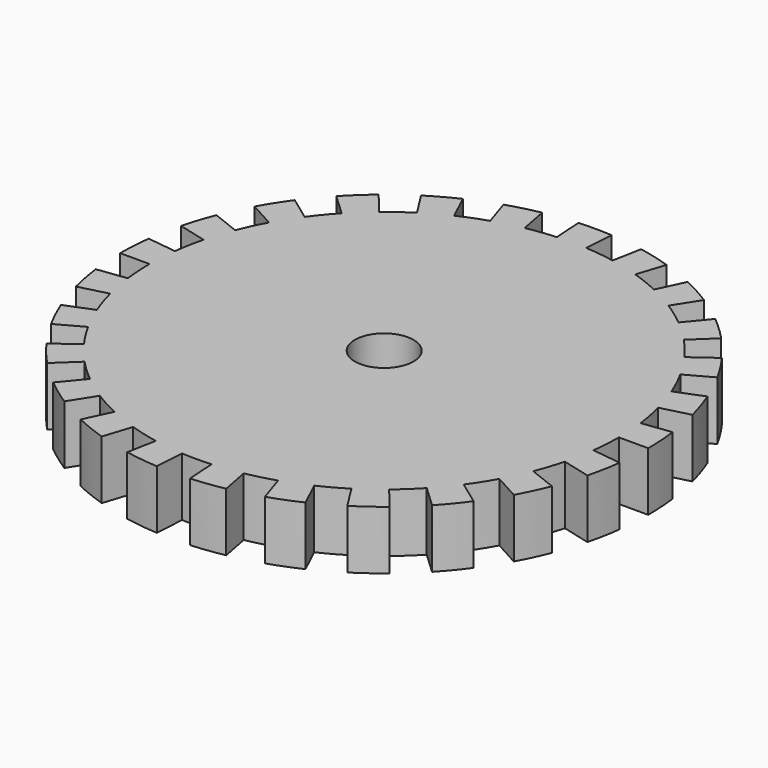
from build123d import *

# Parameters (mm, degrees)
F0_R     = 3.175
F1_DEPTH = 6.35


with BuildPart() as f1:
    # F0 (on Top) → F1 (new body)
    with BuildSketch(Plane.XY):
        with BuildLine():
            Line((-4.759485, 24.950096), (-5.354421, 28.068858))
            ThreePointArc((-5.354421, 28.068858), (-7.106314, 27.677264), (-8.830161, 27.17644))
            Line((-8.830161, 27.17644), (-7.849032, 24.156836))
            ThreePointArc((-7.849032, 24.156836), (-9.350364, 23.616323), (-10.814794, 22.982607))
            Line((-10.814794, 22.982607), (-12.166643, 25.855433))
            ThreePointArc((-12.166643, 25.855433), (-13.766111, 25.040463), (-15.311251, 24.12667))
            Line((-15.311251, 24.12667), (-13.610001, 21.445929))
            ThreePointArc((-13.610001, 21.445929), (-14.929745, 20.549032), (-16.190569, 19.571036))
            Line((-16.190569, 19.571036), (-18.214391, 22.017416))
            ThreePointArc((-18.214391, 22.017416), (-19.560934, 20.830279), (-20.830279, 19.560934))
            Line((-20.830279, 19.560934), (-18.515803, 17.387496))
            ThreePointArc((-18.515803, 17.387496), (-19.571036, 16.190569), (-20.549032, 14.929745))
            Line((-20.549032, 14.929745), (-23.117661, 16.795964))
            ThreePointArc((-23.117661, 16.795964), (-24.12667, 15.311251), (-25.040463, 13.766111))
            Line((-25.040463, 13.766111), (-22.25819, 12.236543))
            ThreePointArc((-22.25819, 12.236543), (-22.982607, 10.814794), (-23.616323, 9.350364))
            Line((-23.616323, 9.350364), (-26.568363, 10.519159))
            ThreePointArc((-26.568363, 10.519159), (-27.17644, 8.830161), (-27.677264, 7.106314))
            Line((-27.677264, 7.106314), (-24.602012, 6.316723))
            ThreePointArc((-24.602012, 6.316723), (-24.950096, 4.759485), (-25.199713, 3.183464))
            Line((-25.199713, 3.183464), (-28.349678, 3.581397))
            ThreePointArc((-28.349678, 3.581397), (-28.518614, 1.794239), (-28.575, 0))
            Line((-28.575, 0), (-25.4, 0))
            ThreePointArc((-25.4, 0), (-25.349879, -1.594879), (-25.199713, -3.183464))
            Line((-25.199713, -3.183464), (-28.349678, -3.581397))
            ThreePointArc((-28.349678, -3.581397), (-28.068858, -5.354421), (-27.677264, -7.106314))
            Line((-27.677264, -7.106314), (-24.602012, -6.316723))
            ThreePointArc((-24.602012, -6.316723), (-24.156836, -7.849032), (-23.616323, -9.350364))
            Line((-23.616323, -9.350364), (-26.568363, -10.519159))
            ThreePointArc((-26.568363, -10.519159), (-25.855433, -12.166643), (-25.040463, -13.766111))
            Line((-25.040463, -13.766111), (-22.25819, -12.236543))
            ThreePointArc((-22.25819, -12.236543), (-21.445929, -13.610001), (-20.549032, -14.929745))
            Line((-20.549032, -14.929745), (-23.117661, -16.795964))
            ThreePointArc((-23.117661, -16.795964), (-22.017416, -18.214391), (-20.830279, -19.560934))
            Line((-20.830279, -19.560934), (-18.515803, -17.387496))
            ThreePointArc((-18.515803, -17.387496), (-17.387496, -18.515803), (-16.190569, -19.571036))
            Line((-16.190569, -19.571036), (-18.214391, -22.017416))
            ThreePointArc((-18.214391, -22.017416), (-16.795964, -23.117661), (-15.311251, -24.12667))
            Line((-15.311251, -24.12667), (-13.610001, -21.445929))
            ThreePointArc((-13.610001, -21.445929), (-12.236543, -22.25819), (-10.814794, -22.982607))
            Line((-10.814794, -22.982607), (-12.166643, -25.855433))
            ThreePointArc((-12.166643, -25.855433), (-10.519159, -26.568363), (-8.830161, -27.17644))
            Line((-8.830161, -27.17644), (-7.849032, -24.156836))
            ThreePointArc((-7.849032, -24.156836), (-6.316723, -24.602012), (-4.759485, -24.950096))
            Line((-4.759485, -24.950096), (-5.354421, -28.068858))
            ThreePointArc((-5.354421, -28.068858), (-3.581397, -28.349678), (-1.794239, -28.518614))
            Line((-1.794239, -28.518614), (-1.594879, -25.349879))
            ThreePointArc((-1.594879, -25.349879), (0, -25.4), (1.594879, -25.349879))
            Line((1.594879, -25.349879), (1.794239, -28.518614))
            ThreePointArc((1.794239, -28.518614), (3.581397, -28.349678), (5.354421, -28.068858))
            Line((5.354421, -28.068858), (4.759485, -24.950096))
            ThreePointArc((4.759485, -24.950096), (6.316723, -24.602012), (7.849032, -24.156836))
            Line((7.849032, -24.156836), (8.830161, -27.17644))
            ThreePointArc((8.830161, -27.17644), (10.519159, -26.568363), (12.166643, -25.855433))
            Line((12.166643, -25.855433), (10.814794, -22.982607))
            ThreePointArc((10.814794, -22.982607), (12.236543, -22.25819), (13.610001, -21.445929))
            Line((13.610001, -21.445929), (15.311251, -24.12667))
            ThreePointArc((15.311251, -24.12667), (16.795964, -23.117661), (18.214391, -22.017416))
            Line((18.214391, -22.017416), (16.190569, -19.571036))
            ThreePointArc((16.190569, -19.571036), (17.387496, -18.515803), (18.515803, -17.387496))
            Line((18.515803, -17.387496), (20.830279, -19.560934))
            ThreePointArc((20.830279, -19.560934), (22.017416, -18.214391), (23.117661, -16.795964))
            Line((23.117661, -16.795964), (20.549032, -14.929745))
            ThreePointArc((20.549032, -14.929745), (21.445929, -13.610001), (22.25819, -12.236543))
            Line((22.25819, -12.236543), (25.040463, -13.766111))
            ThreePointArc((25.040463, -13.766111), (25.855433, -12.166643), (26.568363, -10.519159))
            Line((26.568363, -10.519159), (23.616323, -9.350364))
            ThreePointArc((23.616323, -9.350364), (24.156836, -7.849032), (24.602012, -6.316723))
            Line((24.602012, -6.316723), (27.677264, -7.106314))
            ThreePointArc((27.677264, -7.106314), (28.068858, -5.354421), (28.349678, -3.581397))
            Line((28.349678, -3.581397), (25.199713, -3.183464))
            ThreePointArc((25.199713, -3.183464), (25.349879, -1.594879), (25.4, 0))
            Line((25.4, 0), (28.575, 0))
            ThreePointArc((28.575, 0), (28.518614, 1.794239), (28.349678, 3.581397))
            Line((28.349678, 3.581397), (25.199713, 3.183464))
            ThreePointArc((25.199713, 3.183464), (24.950096, 4.759485), (24.602012, 6.316723))
            Line((24.602012, 6.316723), (27.677264, 7.106314))
            ThreePointArc((27.677264, 7.106314), (27.17644, 8.830161), (26.568363, 10.519159))
            Line((26.568363, 10.519159), (23.616323, 9.350364))
            ThreePointArc((23.616323, 9.350364), (22.982607, 10.814794), (22.25819, 12.236543))
            Line((22.25819, 12.236543), (25.040463, 13.766111))
            ThreePointArc((25.040463, 13.766111), (24.12667, 15.311251), (23.117661, 16.795964))
            Line((23.117661, 16.795964), (20.549032, 14.929745))
            ThreePointArc((20.549032, 14.929745), (19.571036, 16.190569), (18.515803, 17.387496))
            Line((18.515803, 17.387496), (20.830279, 19.560934))
            ThreePointArc((20.830279, 19.560934), (19.560934, 20.830279), (18.214391, 22.017416))
            Line((18.214391, 22.017416), (16.190569, 19.571036))
            ThreePointArc((16.190569, 19.571036), (14.929745, 20.549032), (13.610001, 21.445929))
            Line((13.610001, 21.445929), (15.311251, 24.12667))
            ThreePointArc((15.311251, 24.12667), (13.766111, 25.040463), (12.166643, 25.855433))
            Line((12.166643, 25.855433), (10.814794, 22.982607))
            ThreePointArc((10.814794, 22.982607), (9.350364, 23.616323), (7.849032, 24.156836))
            Line((7.849032, 24.156836), (8.830161, 27.17644))
            ThreePointArc((8.830161, 27.17644), (7.106314, 27.677264), (5.354421, 28.068858))
            Line((5.354421, 28.068858), (4.759485, 24.950096))
            ThreePointArc((4.759485, 24.950096), (3.183464, 25.199713), (1.594879, 25.349879))
            Line((1.594879, 25.349879), (1.794239, 28.518614))
            ThreePointArc((1.794239, 28.518614), (0, 28.575), (-1.794239, 28.518614))
            Line((-1.794239, 28.518614), (-1.594879, 25.349879))
            ThreePointArc((-1.594879, 25.349879), (-3.183464, 25.199713), (-4.759485, 24.950096))
        make_face()
        Circle(F0_R, mode=Mode.SUBTRACT)
    extrude(amount=F1_DEPTH)


solid = f1.part
